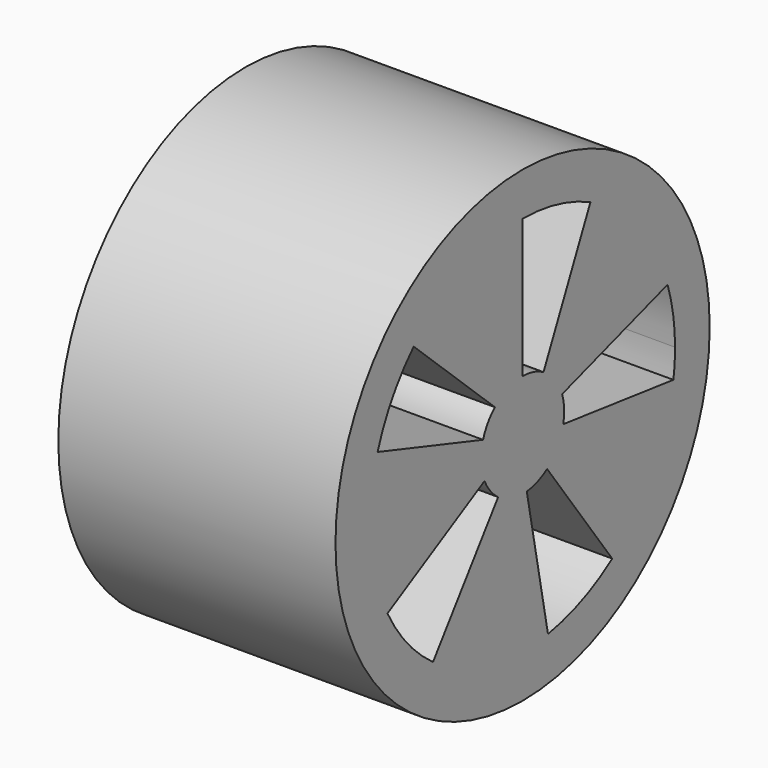
from build123d import *

# Parameters (mm, degrees)
F0_R     = 6.75
F1_DEPTH = 8
F3_DEPTH = 8.001


with BuildPart() as f1:
    # F0 (on Right) → F1 (new body)
    with BuildSketch(Plane.YZ):
        Circle(F0_R)
    extrude(amount=F1_DEPTH)

    # F2 (on face) → F3 (cut, through all)
    with BuildSketch(Plane.YZ.offset(8)):
        with BuildLine():
            ThreePointArc((-1.426585, 0.463525), (-1.256585, 0.819143), (-0.999817, 1.118198))
            Line((-0.999817, 1.118198), (-3.928516, 3.849254))
            ThreePointArc((-3.928516, 3.849254), (-4.704102, 2.849811), (-5.230811, 1.699593))
            Line((-5.230811, 1.699593), (-1.426585, 0.463525))
        make_face()
        with BuildLine():
            Line((-3.232819, -4.449593), (-0.881678, -1.213525))
            ThreePointArc((-0.881678, -1.213525), (-1.167357, -0.941954), (-1.37243, -0.60534))
            Line((-1.37243, -0.60534), (-4.874837, -2.546756))
            ThreePointArc((-4.874837, -2.546756), (-4.163979, -3.593227), (-3.232819, -4.449593))
        make_face()
        with BuildLine():
            ThreePointArc((0, 1.5), (0.390745, 1.448212), (0.754509, 1.296424))
            Line((0.754509, 1.296424), (2.44688, 4.925726))
            ThreePointArc((2.44688, 4.925726), (1.256683, 5.354507), (0, 5.5))
            Line((0, 5.5), (0, 1.5))
        make_face()
        with BuildLine():
            Line((3.232819, -4.449593), (0.881678, -1.213525))
            ThreePointArc((0.881678, -1.213525), (0.535118, -1.401302), (0.151609, -1.492319))
            Line((0.151609, -1.492319), (0.915702, -5.423236))
            ThreePointArc((0.915702, -5.423236), (2.130622, -5.070547), (3.232819, -4.449593))
        make_face()
        with BuildLine():
            ThreePointArc((1.426585, 0.463525), (1.481533, 0.234652), (1.5, 0))
            ThreePointArc((1.5, 0), (1.491508, -0.159384), (1.466129, -0.316964))
            Line((1.466129, -0.316964), (5.440771, -0.804988))
            ThreePointArc((5.440771, -0.804988), (5.485173, -0.403582), (5.5, 0))
            ThreePointArc((5.5, 0), (5.432286, 0.86039), (5.230811, 1.699593))
            Line((5.230811, 1.699593), (1.426585, 0.463525))
        make_face()
    extrude(amount=-F3_DEPTH, mode=Mode.SUBTRACT)


solid = f1.part
